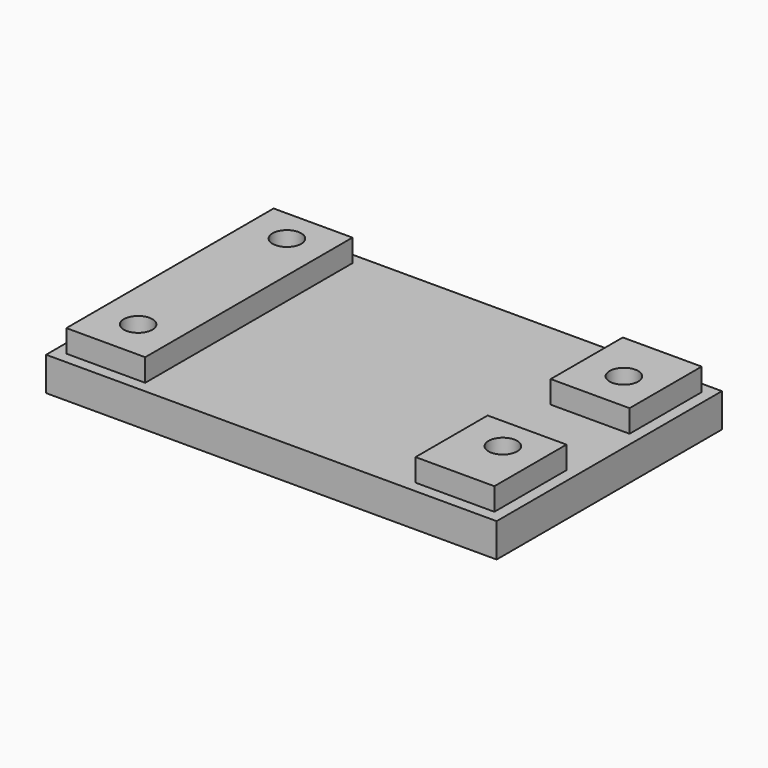
from build123d import *

# Parameters (mm, degrees)
CYLINDER040_R     = 3.25
CYLINDER040_DEPTH = 2
CYLINDER041_R     = 3.25
CYLINDER041_DEPTH = 2
CYLINDER042_R     = 3.25
CYLINDER042_DEPTH = 2
CYLINDER039_R     = 3.25
CYLINDER039_DEPTH = 2
CYLINDER035_R     = 1.27
CYLINDER035_DEPTH = 5
CYLINDER037_R     = 1.27
CYLINDER037_DEPTH = 5
CYLINDER038_R     = 1.27
CYLINDER038_DEPTH = 5
CYLINDER036_R     = 1.27
CYLINDER036_DEPTH = 5
BOX021_W          = 7
BOX021_H          = 8
BOX021_DEPTH      = 2
BOX022_W          = 7
BOX022_H          = 8
BOX022_DEPTH      = 2
BOX020_W          = 7
BOX020_H          = 23
BOX020_DEPTH      = 2
BOX019_W          = 40
BOX019_H          = 25
BOX019_DEPTH      = 3


with BuildPart() as cylinder040:
    # Cylinder040 → Cylinder040 (new body)
    with BuildSketch(Plane(origin=(3.54, 3.54, 0), x_dir=(1, 0, 0), z_dir=(0, 0, 1))):
        Circle(CYLINDER040_R)
    extrude(amount=CYLINDER040_DEPTH)


with BuildPart() as cylinder041:
    # Cylinder041 → Cylinder041 (new body)
    with BuildSketch(Plane(origin=(34.7, 18.5, 0), x_dir=(1, 0, 0), z_dir=(0, 0, 1))):
        Circle(CYLINDER041_R)
    extrude(amount=CYLINDER041_DEPTH)


with BuildPart() as cylinder042:
    # Cylinder042 → Cylinder042 (new body)
    with BuildSketch(Plane(origin=(34.7, 5.06, 0), x_dir=(1, 0, 0), z_dir=(0, 0, 1))):
        Circle(CYLINDER042_R)
    extrude(amount=CYLINDER042_DEPTH)


with BuildPart() as washer_bolt_holes:
    # Cylinder039 → Cylinder039 (new body)
    with BuildSketch(Plane(origin=(3.54, 20.05, 0), x_dir=(1, 0, 0), z_dir=(0, 0, 1))):
        Circle(CYLINDER039_R)
    extrude(amount=CYLINDER039_DEPTH)

    # Fusion023: union Cylinder040, Cylinder041, Cylinder042
    add(cylinder040.part)
    add(cylinder041.part)
    add(cylinder042.part)


with BuildPart() as cylinder035:
    # Cylinder035 → Cylinder035 (new body)
    with BuildSketch(Plane(origin=(2.54, 19.05, 0), x_dir=(1, 0, 0), z_dir=(0, 0, 1))):
        Circle(CYLINDER035_R)
    extrude(amount=CYLINDER035_DEPTH)


with BuildPart() as cylinder037:
    # Cylinder037 → Cylinder037 (new body)
    with BuildSketch(Plane(origin=(33.7, 17.5, 0), x_dir=(1, 0, 0), z_dir=(0, 0, 1))):
        Circle(CYLINDER037_R)
    extrude(amount=CYLINDER037_DEPTH)


with BuildPart() as cylinder038:
    # Cylinder038 → Cylinder038 (new body)
    with BuildSketch(Plane(origin=(33.7, 4.064, 0), x_dir=(1, 0, 0), z_dir=(0, 0, 1))):
        Circle(CYLINDER038_R)
    extrude(amount=CYLINDER038_DEPTH)


with BuildPart() as complete_blackplate_holes:
    # Cylinder036 → Cylinder036 (new body)
    with BuildSketch(Plane(origin=(2.54, 2.54, 0), x_dir=(1, 0, 0), z_dir=(0, 0, 1))):
        Circle(CYLINDER036_R)
    extrude(amount=CYLINDER036_DEPTH)

    # Fusion021: union Cylinder035, Cylinder037, Cylinder038
    add(cylinder035.part)
    add(cylinder037.part)
    add(cylinder038.part)


with BuildPart() as complete_blackplate_holes_1:
    # Fusion021 placement: moved
    add(complete_blackplate_holes.part.moved(Location((1, 1, 0))))

    # Fusion024: union Washer Bolt Holes
    add(washer_bolt_holes.part)


with BuildPart() as cube012:
    # Box021 → Box021 (new body)
    with BuildSketch(Plane(origin=(31, 15, 3), x_dir=(1, 0, 0), z_dir=(0, 0, 1))):
        with Locations((3.5, 4)):
            Rectangle(BOX021_W, BOX021_H)
    extrude(amount=BOX021_DEPTH)


with BuildPart() as cube013:
    # Box022 → Box022 (new body)
    with BuildSketch(Plane(origin=(31, 0, 3), x_dir=(1, 0, 0), z_dir=(0, 0, 1))):
        with Locations((3.5, 4)):
            Rectangle(BOX022_W, BOX022_H)
    extrude(amount=BOX022_DEPTH)


with BuildPart() as standoff_blocks:
    # Box020 → Box020 (new body)
    with BuildSketch(Plane.XY.offset(3)):
        with Locations((3.5, 11.5)):
            Rectangle(BOX020_W, BOX020_H)
    extrude(amount=BOX020_DEPTH)

    # Fusion022: union Cube012, Cube013
    add(cube012.part)
    add(cube013.part)


with BuildPart() as regulator_base:
    # Box019 → Box019 (new body)
    with BuildSketch(Plane(origin=(-1, -1, 0), x_dir=(1, 0, 0), z_dir=(0, 0, 1))):
        with Locations((20, 12.5)):
            Rectangle(BOX019_W, BOX019_H)
    extrude(amount=BOX019_DEPTH)

    # Fusion025: union Standoff Blocks
    add(standoff_blocks.part)

    # Cut012: cut Complete Blackplate Holes
    add(complete_blackplate_holes_1.part, mode=Mode.SUBTRACT)


with BuildPart() as regulator_base_1:
    # Cut012 placement: moved
    add(regulator_base.part.moved(Location((12.5, 63, 3))))


solid = regulator_base_1.part
